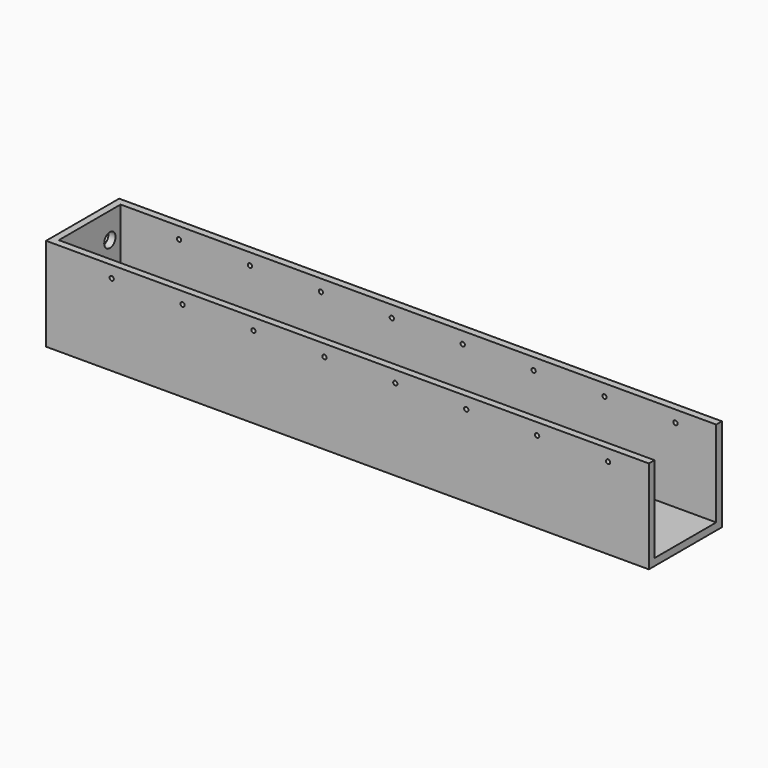
from build123d import *

# Parameters (mm, degrees)
CYLINDER003_R     = 2
CYLINDER003_DEPTH = 10
ARRAY001_Y_COUNT  = 2
ARRAY001_Y_PITCH  = 13.5
CYLINDER002_R     = 0.6
CYLINDER002_DEPTH = 100
ARRAY002_X_COUNT  = 8
ARRAY002_X_PITCH  = 20
BOX001_W          = 170
BOX001_H          = 21.76
BOX001_DEPTH      = 26.3
BOX_W             = 170
BOX_H             = 25.76
BOX_DEPTH         = 26.3


with BuildPart() as array001:
    # Cylinder003 → Cylinder003 (new body)
    with BuildSketch(Plane(origin=(-4, 6.5, 19), x_dir=(0, 0, -1), z_dir=(1, 0, 0))):
        Circle(CYLINDER003_R)
    extrude(amount=CYLINDER003_DEPTH)

    # Array001 Y: Array001 ×2


with BuildPart() as array001_1:
    add(array001.part)
    with Locations(*[(0, i * ARRAY001_Y_PITCH, 0) for i in range(1, ARRAY001_Y_COUNT)]):
        add(array001.part)


with BuildPart() as array002:
    # Cylinder002 → Cylinder002 (new body)
    with BuildSketch(Plane(origin=(18.5, -32.5, 23), x_dir=(1, 0, 0), z_dir=(0, 1, 0))):
        Circle(CYLINDER002_R)
    extrude(amount=CYLINDER002_DEPTH)

    # Array002 X: Array002 ×8


with BuildPart() as array002_1:
    add(array002.part)
    with Locations(*[(i * ARRAY002_X_PITCH, 0, 0) for i in range(1, ARRAY002_X_COUNT)]):
        add(array002.part)


with BuildPart() as fusion:
    # Box001 → Box001 (new body)
    with BuildSketch(Plane(origin=(2, 2, 2), x_dir=(1, 0, 0), z_dir=(0, 0, 1))):
        with Locations((85, 10.88)):
            Rectangle(BOX001_W, BOX001_H)
    extrude(amount=BOX001_DEPTH)

    # Fusion: union Array001, Array002
    add(array001_1.part)
    add(array002_1.part)


with BuildPart() as cut001:
    # Box → Box (new body)
    with BuildSketch(Plane.XY):
        with Locations((85, 12.88)):
            Rectangle(BOX_W, BOX_H)
    extrude(amount=BOX_DEPTH)

    # Cut001: cut Fusion
    add(fusion.part, mode=Mode.SUBTRACT)


solid = cut001.part
